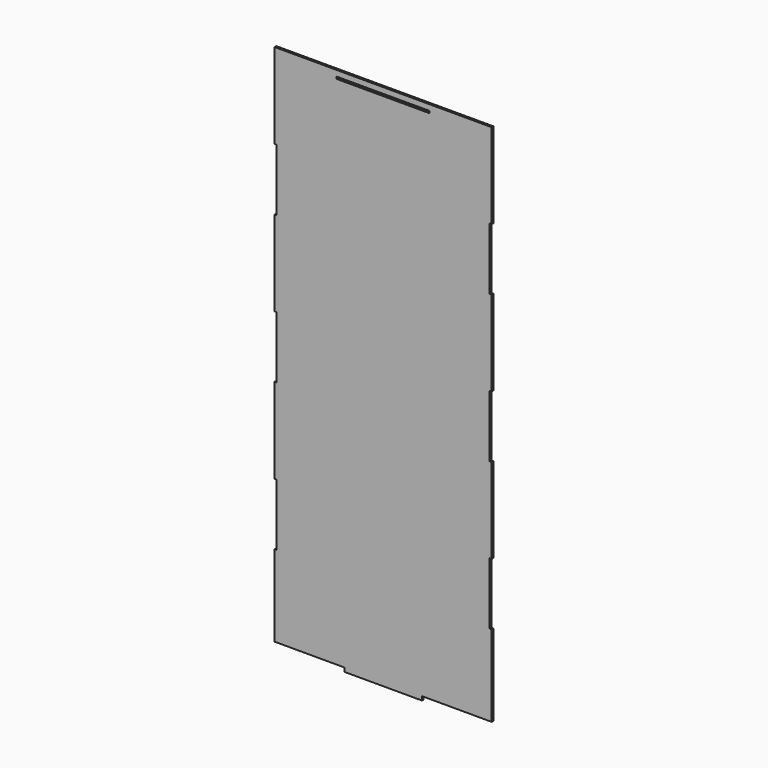
from build123d import *

# Parameters (mm, degrees)
F0_W     = 152.4
F0_H     = 3.4163
F1_DEPTH = 3.4163


with BuildPart() as f1:
    # F0 (on Front) → F1 (new body)
    with BuildSketch(Plane.XZ):
        Polygon((-177.8, 0), (-63.5, 0), (-63.5, -6.35), (63.5, -6.35), (63.5, 0), (177.8, 0), (177.8, 133.35), (174.3837, 133.35), (174.3837, 234.95), (177.8, 234.95), (177.8, 374.65), (174.3837, 374.65), (174.3837, 476.25), (177.8, 476.25), (177.8, 615.95), (174.3837, 615.95), (174.3837, 717.55), (177.8, 717.55), (177.8, 857.25), (76.2, 857.25), (-76.2, 857.25), (-177.8, 857.25), (-177.8, 717.55), (-174.3837, 717.55), (-174.3837, 615.95), (-177.8, 615.95), (-177.8, 476.25), (-174.3837, 476.25), (-174.3837, 374.65), (-177.8, 374.65), (-177.8, 234.95), (-174.3837, 234.95), (-174.3837, 133.35), (-177.8, 133.35), align=None)
        with Locations((0, 846.01685)):
            Rectangle(F0_W, F0_H, mode=Mode.SUBTRACT)
    extrude(amount=F1_DEPTH)


solid = f1.part
